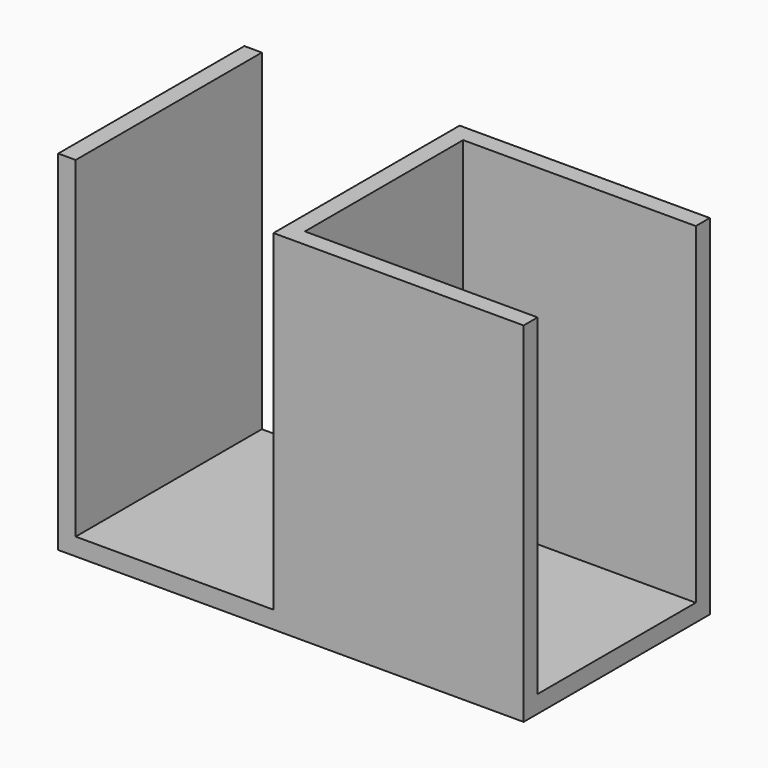
from build123d import *

# Parameters (mm, degrees)
F0_W     = 20
F0_H     = 30
F1_DEPTH = 20
F3_W     = 17
F3_H     = 28.5
F4_DEPTH = 30


with BuildPart() as f1:
    # F0 (on Front) → F1 (new body)
    with BuildSketch(Plane.XZ):
        Polygon((-18.5, 30), (-20, 30), (-20, 0), (0, 0), (0, 30), (-1.5, 30), (-1.5, 1.5), (-18.5, 1.5), align=None)
        with Locations((10, 15)):
            Rectangle(F0_W, F0_H)
    extrude(amount=F1_DEPTH)

    # F3 (on offset) → F4 (cut)
    with BuildSketch(Plane.YZ.offset(30)):
        with Locations((-10, 15.75)):
            Rectangle(F3_W, F3_H)
    extrude(amount=-F4_DEPTH, mode=Mode.SUBTRACT)


solid = f1.part
